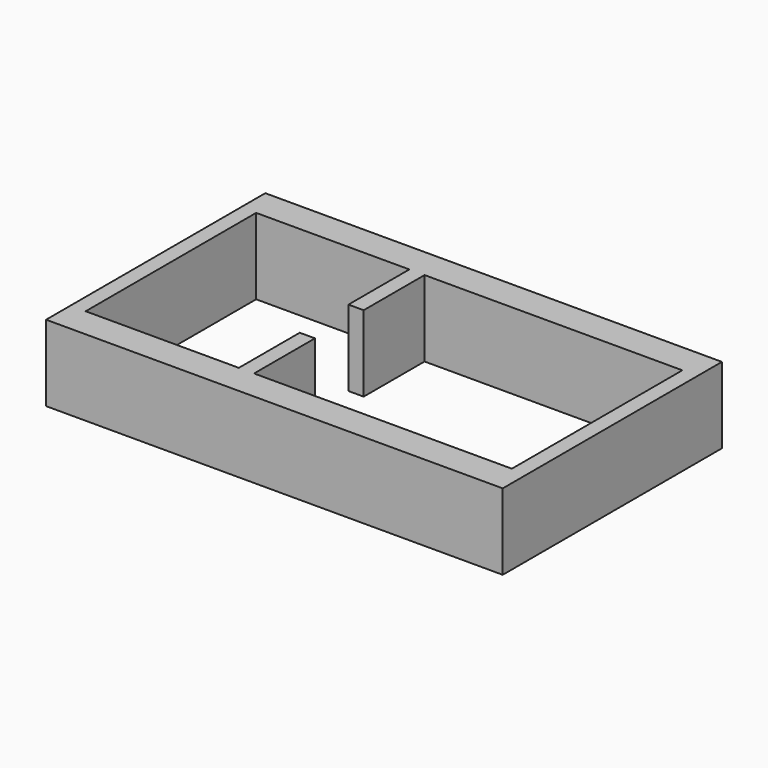
from build123d import *

# Parameters (mm, degrees)
F0_W     = 150
F0_H     = 90
F0_W_2   = 5
F0_H_2   = 25
F1_DEPTH = 25


with BuildPart() as f1:
    # F0 (on Top) → F1 (new body)
    with BuildSketch(Plane.XY):
        with Locations((75, -45)):
            Rectangle(F0_W, F0_H)
        Polygon((5, -80), (5, -10), (55.321157, -10), (60.321157, -10), (145, -10), (145, -80), (60.321157, -80), (55.321157, -80), align=None, mode=Mode.SUBTRACT)
        with Locations((57.821157, -22.5)):
            Rectangle(F0_W_2, F0_H_2)
        with Locations((57.821157, -67.5)):
            Rectangle(F0_W_2, F0_H_2)
    extrude(amount=F1_DEPTH)


solid = f1.part
